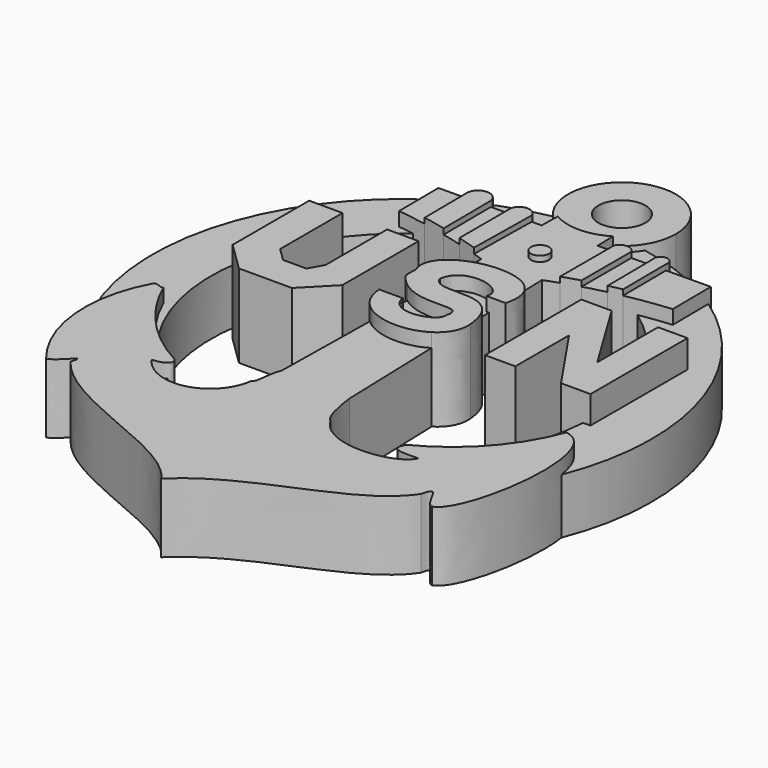
from build123d import *

# Parameters (mm, degrees)
F2_DEPTH = 7.62
F3_DEPTH = 6.35
F0_R     = 0.8291771287
F4_DEPTH = 6.858
F0_R_2   = 2.1553266284
F5_DEPTH = 5.588
F1_R     = 22.8801802179
F1_R_2   = 17.5257526387
F6_DEPTH = 5.08


with BuildPart() as f2:
    # F0 (on Top) → F2 (new body)
    with BuildSketch(Plane.XY):
        with BuildLine():
            add(Edge.make_bspline(
                [(5.497246546, 10.7486766955), (3.8334039541, 11.3815288709), (1.4025576165, 11.0387219262), (-0.0530899992, 10.0493100986)],
                knots=[2.6698914322, 2.6698914322, 2.6698914322, 2.6698914322, 6.0260331997, 6.0260331997, 6.0260331997, 6.0260331997], degree=3))
            Line((-0.0530899992, 10.0493100986), (-0.1335000247, 5.0468160789))
            add(Edge.make_bspline(
                [(4.9897432327, 3.1297719106), (5.5904434614, 5.1484242225), (2.4007336839, 3.08610125), (-0.1335000247, 5.0468160789)],
                knots=[0, 0, 0, 0, 5.9302208988, 5.9302208988, 5.9302208988, 5.9302208988], degree=3))
            add(Edge.make_bspline(
                [(0.9446991025, 3.056304995), (1.4890548773, 0.9035682888), (5.2056401037, 1.8597359303), (4.9897432327, 3.1297719106)],
                knots=[0, 0, 0, 0, 4.0457112357, 4.0457112357, 4.0457112357, 4.0457112357], degree=3))
            Line((0.9446991025, 3.056304995), (0.9446991025, 3.2122109551))
            Line((0.9446991025, 3.2122109551), (-0.1629894443, 3.2122109551))
            Line((-0.1629894443, 3.2122109551), (-0.2009005961, 0.853670351))
            add(Edge.make_bspline(
                [(-0.2009005961, 0.853670351), (1.3202973225, -0.6125575418), (4.130163992, -0.6977163859), (5.8218545421, 0.3876527215)],
                knots=[1.7083509311, 1.7083509311, 1.7083509311, 1.7083509311, 6.0881811531, 6.0881811531, 6.0881811531, 6.0881811531], degree=3))
            Line((5.8218545421, 0.3876527215), (5.6444625086, 6.049753267))
            add(Edge.make_bspline(
                [(1.1031959439, 7.2203031741), (1.6243004845, 5.7945271033), (4.0018457618, 6.881882987), (5.6444625086, 6.049753267)],
                knots=[0, 0, 0, 0, 4.9921096473, 4.9921096473, 4.9921096473, 4.9921096473], degree=3))
            add(Edge.make_bspline(
                [(1.1031959439, 7.2203031741), (1.5035220422, 9.9851647392), (6.0976599343, 8.8818231598), (5.3703715093, 7.2203031741)],
                knots=[0, 0, 0, 0, 4.2671755655, 4.2671755655, 4.2671755655, 4.2671755655], degree=3))
            Line((5.3703715093, 7.2203031741), (5.607789506, 7.2203031741))
            Line((5.607789506, 7.2203031741), (5.497246546, 10.7486766955))
        make_face()
        with BuildLine():
            Line((-0.1335000247, 5.0468160789), (-0.0530899992, 10.0493100986))
            add(Edge.make_bspline(
                [(-0.0530899992, 10.0493100986), (-1.0289451618, 9.3860158854), (-1.5665206355, 8.4321206074), (-1.1409050785, 7.2867656127)],
                knots=[6.0260331997, 6.0260331997, 6.0260331997, 6.0260331997, 8.2759652816, 8.2759652816, 8.2759652816, 8.2759652816], degree=3))
            add(Edge.make_bspline(
                [(-1.1409050785, 7.2867656127), (-1.0869735474, 7.2188825056), (-1.2571625412, 6.251544226), (-1.0367770446, 5.9762303717)],
                knots=[0.1866765909, 0.1866765909, 0.1866765909, 0.1866765909, 1, 1, 1, 1], degree=3))
            add(Edge.make_bspline(
                [(-0.1335000247, 5.0468160789), (-0.4474716117, 5.289733196), (-0.7513821278, 5.5944009559), (-1.0367770446, 5.9762303717)],
                knots=[5.9302208988, 5.9302208988, 5.9302208988, 5.9302208988, 6.6649285386, 6.6649285386, 6.6649285386, 6.6649285386], degree=3))
        make_face()
        with BuildLine():
            add(Edge.make_bspline(
                [(7.1347933263, 7.2203031741), (7.6590952528, 9.1243243126), (6.8208733141, 10.245227581), (5.497246546, 10.7486766955)],
                knots=[0, 0, 0, 0, 2.6698914322, 2.6698914322, 2.6698914322, 2.6698914322], degree=3))
            Line((5.497246546, 10.7486766955), (5.607789506, 7.2203031741))
            Line((5.607789506, 7.2203031741), (7.1347933263, 7.2203031741))
        make_face()
        with BuildLine():
            add(Edge.make_bspline(
                [(5.6444625086, 6.049753267), (6.4171671275, 5.6583104795), (7.0272421323, 4.8421118281), (7.2049377486, 3.1397419516)],
                knots=[4.9921096473, 4.9921096473, 4.9921096473, 4.9921096473, 7.3404518214, 7.3404518214, 7.3404518214, 7.3404518214], degree=3))
            Line((5.6444625086, 6.049753267), (5.8218545421, 0.3876527215))
            add(Edge.make_bspline(
                [(5.8218545421, 0.3876527215), (6.7360982592, 0.9742209251), (7.3237599081, 1.9026614266), (7.2049377486, 3.1397419516)],
                knots=[6.0881811531, 6.0881811531, 6.0881811531, 6.0881811531, 8.4551815848, 8.4551815848, 8.4551815848, 8.4551815848], degree=3))
        make_face()
        with BuildLine():
            Line((-0.2009005961, 0.853670351), (-0.1629894443, 3.2122109551))
            Line((-0.1629894443, 3.2122109551), (-1.2499332661, 3.2122109551))
            add(Edge.make_bspline(
                [(-1.2499332661, 3.2122109551), (-1.191529455, 2.2075875066), (-0.7942432028, 1.4255719223), (-0.2009005961, 0.853670351)],
                knots=[0, 0, 0, 0, 1.7083509311, 1.7083509311, 1.7083509311, 1.7083509311], degree=3))
        make_face()
    extrude(amount=F2_DEPTH)


with BuildPart() as f2b:
    # F0 (on Top) → F2, piece 2 (new body)
    with BuildSketch(Plane.XY):
        Polygon((13.802325353, 0), (13.802325353, 6.1516375281), (13.802325353, 11.029410176), (11.023982428, 11.029410176), (11.023982428, 0), align=None)
        Polygon((17.9926343262, 0), (20.6873863935, 0), (20.6873863935, 11.1058149487), (17.9926343262, 11.1058149487), (17.9926343262, 4.1447025724), align=None)
        Polygon((13.802325353, 6.1516375281), (17.9926343262, 0), (17.9926343262, 4.1447025724), (13.802325353, 11.029410176), align=None)
    extrude(amount=F2_DEPTH)



with BuildPart() as f2c:
    # F0 (on Top) → F2, piece 3 (new body)
    with BuildSketch(Plane.XY):
        Polygon((-13.7530798092, 10.8293658122), (-13.7530798092, 10.7873072848), (-13.7530798092, 2.0703237969), (-11.1178532243, -0.5058620009), (-6.2591494061, -0.5058620009), (-3.7201617694, 2.091313919), (-3.7201617694, 10.8293658122), (-6.6077923402, 10.8293658122), (-6.6077923402, 3.7746496964), (-7.3287175037, 2.489393577), (-9.4723468646, 2.489393577), (-10.6916761373, 3.6814044549), (-10.6916761373, 10.8293658122), align=None)
    extrude(amount=F2_DEPTH)


with BuildPart() as f3:
    # F0 (on Top) → F3 (new body)
    with BuildSketch(Plane.XY):
        with BuildLine():
            add(Edge.make_bspline(
                [(-0.2009005961, 0.853670351), (1.3202973225, -0.6125575418), (4.130163992, -0.6977163859), (5.8218545421, 0.3876527215)],
                knots=[1.7083509311, 1.7083509311, 1.7083509311, 1.7083509311, 6.0881811531, 6.0881811531, 6.0881811531, 6.0881811531], degree=3))
            Line((-0.2009005961, 0.853670351), (-0.3602679808, -9.0609439431))
            add(Edge.make_bspline(
                [(-0.3602679808, -9.0609439431), (-0.8195705886, -10.0890202448), (-0.5871166359, -11.4878173918), (-1.0561340114, -11.7041076334)],
                knots=[0, 0, 0, 0, 2.7332295598, 2.7332295598, 2.7332295598, 2.7332295598], degree=3))
            ThreePointArc((-1.0561340114, -11.7041076334), (-4.2387033806, -15.2435567169), (-8.6886079672, -13.5539423308))
            add(Edge.make_bspline(
                [(-8.6886079672, -13.5539423308), (-7.1325474419, -13.4357642382), (-7.0911982867, -12.7156293729), (-7.4844492439, -12.4515621701)],
                knots=[0, 0, 0, 0, 1.6325563542, 1.6325563542, 1.6325563542, 1.6325563542], degree=3))
            ThreePointArc((-7.4844492439, -12.4515621701), (-11.9371388824, -9.0010154236), (-15.0162729173, -4.2838498062))
            add(Edge.make_bspline(
                [(-15.9955534512, -4.2838498062), (-15.6531047251, -3.9355144836), (-15.2114368156, -4.5119276059), (-15.0162729173, -4.2838498062)],
                knots=[0, 0, 0, 0, 0.9792805339, 0.9792805339, 0.9792805339, 0.9792805339], degree=3))
            ThreePointArc((-15.9955534512, -4.2838498062), (-17.4403964767, -11.4248381815), (-14.6632436663, -18.1604679674))
            add(Edge.make_bspline(
                [(-14.6632436663, -18.1604679674), (-13.5372746736, -17.6549497992), (-12.4737219885, -15.7446451485), (-13.0393737927, -17.3957720399)],
                knots=[0, 0, 0, 0, 1.7949131533, 1.7949131533, 1.7949131533, 1.7949131533], degree=3))
            add(Edge.make_bspline(
                [(-13.0393737927, -17.3957720399), (-9.3975588679, -22.2023874521), (0.5145274336, -23.3325790614), (3.3587017097, -27.5006983429)],
                knots=[0, 0, 0, 0, 19.2615268287, 19.2615268287, 19.2615268287, 19.2615268287], degree=3))
            add(Edge.make_bspline(
                [(3.3587017097, -27.5006983429), (8.0886054784, -22.8314120322), (16.435906291, -22.120308131), (19.3525757641, -17.7606716752)],
                knots=[0, 0, 0, 0, 18.7262416613, 18.7262416613, 18.7262416613, 18.7262416613], degree=3))
            add(Edge.make_bspline(
                [(19.3525757641, -17.7606716752), (19.8215320706, -15.5939441174), (20.3291215003, -18.5678843409), (21.1731847376, -18.7865439802)],
                knots=[0, 0, 0, 0, 2.0897442477, 2.0897442477, 2.0897442477, 2.0897442477], degree=3))
            add(Edge.make_bspline(
                [(21.1731847376, -18.7865439802), (23.6900039017, -18.1129295379), (25.7758814842, -4.3806927279), (21.5339045972, -3.8157743402)],
                knots=[0, 0, 0, 0, 14.9751147719, 14.9751147719, 14.9751147719, 14.9751147719], degree=3))
            ThreePointArc((21.5339045972, -3.8157743402), (18.4720333988, -8.8677410017), (13.7833644916, -12.4613194776))
            add(Edge.make_bspline(
                [(13.7833644916, -12.4613194776), (13.3249154314, -13.3703788742), (13.4523222223, -13.6677725241), (15.7611753703, -13.5615131491)],
                knots=[0, 0, 0, 0, 2.2632193855, 2.2632193855, 2.2632193855, 2.2632193855], degree=3))
            add(Edge.make_bspline(
                [(7.2325540183, -12.9573960392), (8.9976812034, -16.1742356657), (15.066142194, -15.3671661392), (15.7611753703, -13.5615131491)],
                knots=[0, 0, 0, 0, 8.5499906228, 8.5499906228, 8.5499906228, 8.5499906228], degree=3))
            add(Edge.make_bspline(
                [(6.1283885869, -9.3964765191), (6.1210597488, -9.1625504676), (6.3688677056, -12.3650816321), (7.2325540183, -12.9573960392)],
                knots=[0, 0, 0, 0, 3.7281804045, 3.7281804045, 3.7281804045, 3.7281804045], degree=3))
            Line((6.1283885869, -9.3964765191), (5.8218545421, 0.3876527215))
        make_face()
    extrude(amount=F3_DEPTH)


with BuildPart() as f3b:
    # F0 (on Top) → F3, piece 2 (new body)
    with BuildSketch(Plane.XY):
        with BuildLine():
            ThreePointArc((2.6747966185, 12.356530875), (1.3448196869, 12.8752635205), (3.43437e-05, 13.3542985678))
            Line((3.43437e-05, 13.3542985678), (-0.0530899992, 10.0493100986))
            add(Edge.make_bspline(
                [(5.497246546, 10.7486766955), (3.8334039541, 11.3815288709), (1.4025576165, 11.0387219262), (-0.0530899992, 10.0493100986)],
                knots=[2.6698914322, 2.6698914322, 2.6698914322, 2.6698914322, 6.0260331997, 6.0260331997, 6.0260331997, 6.0260331997], degree=3))
            Line((5.497246546, 10.7486766955), (5.4101478402, 13.5287430824))
            ThreePointArc((5.4101478402, 13.5287430824), (4.0308505027, 12.9697562187), (2.6747966185, 12.356530875))
        make_face()
        with BuildLine():
            Line((5.2019630187, 20.1737054754), (0.1089217142, 20.1284342081))
            Line((0.1089217142, 20.1284342081), (3.43437e-05, 13.3542985678))
            ThreePointArc((3.43437e-05, 13.3542985678), (1.3448196869, 12.8752635205), (2.6747966185, 12.356530875))
            ThreePointArc((2.6747966185, 12.356530875), (4.0308505027, 12.9697562187), (5.4101478402, 13.5287430824))
            Line((5.4101478402, 13.5287430824), (5.2019630187, 20.1737054754))
        make_face()
        with Locations((3.0437263194, 16.2760168314)):
            Circle(F0_R, mode=Mode.SUBTRACT)
        with BuildLine():
            Line((6.7004956176, 20.1870257031), (5.2019630187, 20.1737054754))
            Line((5.2019630187, 20.1737054754), (5.4101478402, 13.5287430824))
            ThreePointArc((5.4101478402, 13.5287430824), (6.0531897723, 13.7679088119), (6.7004956176, 13.9952814469))
            Line((6.7004956176, 13.9952814469), (6.7004956176, 20.1870257031))
        make_face()
        with BuildLine():
            Line((3.43437e-05, 13.3542985678), (0.1089217142, 20.1284342081))
            Line((0.1089217142, 20.1284342081), (-0.803777477, 20.1203213642))
            Line((-0.803777477, 20.1203213642), (-0.9077405538, 13.6525374487))
            ThreePointArc((-0.9077405538, 13.6525374487), (-0.4531124974, 13.5056722584), (3.43437e-05, 13.3542985678))
        make_face()
        with BuildLine():
            ThreePointArc((5.144929876, 21.9941219971), (2.6500200352, 21.2809993958), (0.1378941783, 21.930878336))
            Line((0.1378941783, 21.930878336), (0.1089217142, 20.1284342081))
            Line((0.1089217142, 20.1284342081), (5.2019630187, 20.1737054754))
            Line((5.2019630187, 20.1737054754), (5.144929876, 21.9941219971))
        make_face()
    extrude(amount=F3_DEPTH)



with BuildPart() as f3c:
    # F0 (on Top) → F3, piece 3 (new body)
    with BuildSketch(Plane.XY):
        with BuildLine():
            Line((-2.6594451518, 14.1724086738), (-2.6594451518, 20.1038266173))
            Line((-2.6594451518, 20.1038266173), (-4.5163827142, 20.0873205826))
            Line((-4.5163827142, 20.0873205826), (-4.467912348, 14.6343789778))
            ThreePointArc((-4.467912348, 14.6343789778), (-3.5614376068, 14.41216719), (-2.6594451518, 14.1724086738))
        make_face()
    extrude(amount=F3_DEPTH)


with BuildPart() as f3d:
    # F0 (on Top) → F3, piece 4 (new body)
    with BuildSketch(Plane.XY):
        with BuildLine():
            Line((-6.5634267678, 15.0775802073), (-6.6077923402, 20.0687303614))
            Line((-6.6077923402, 20.0687303614), (-9.2860393158, 20.0449238325))
            Line((-9.2860393158, 20.0449238325), (-9.2456822017, 15.5047273435))
            ThreePointArc((-9.2456822017, 15.5047273435), (-7.901538842, 15.310090398), (-6.5634267678, 15.0775802073))
        make_face()
    extrude(amount=F3_DEPTH)


with BuildPart() as f3e:
    # F0 (on Top) → F3, piece 5 (new body)
    with BuildSketch(Plane.XY):
        with BuildLine():
            Line((10.2019393966, 20.2181495028), (8.2729222906, 20.201002764))
            Line((8.2729222906, 20.201002764), (8.2729222906, 14.4932311551))
            ThreePointArc((8.2729222906, 14.4932311551), (9.2570237939, 14.7667608824), (10.2482035094, 15.0134125641))
            Line((10.2482035094, 15.0134125641), (10.2019393966, 20.2181495028))
        make_face()
    extrude(amount=F3_DEPTH)


with BuildPart() as f3f:
    # F0 (on Top) → F3, piece 6 (new body)
    with BuildSketch(Plane.XY):
        with BuildLine():
            Line((15.4968295246, 20.2652149735), (11.4146024558, 20.2289286798))
            Line((11.4146024558, 20.2289286798), (11.4586265037, 15.2762002129))
            ThreePointArc((11.4586265037, 15.2762002129), (13.4892792643, 15.6244369767), (15.5359803223, 15.8607297125))
            Line((15.5359803223, 15.8607297125), (15.4968295246, 20.2652149735))
        make_face()
    extrude(amount=F3_DEPTH)


with BuildPart() as f3g:
    # F0 (on Top) → F3, piece 7 (new body)
    with BuildSketch(Plane.XY):
        with BuildLine():
            Line((5.6444625086, 6.049753267), (5.607789506, 7.2203031741))
            Line((5.607789506, 7.2203031741), (5.3703715093, 7.2203031741))
            add(Edge.make_bspline(
                [(1.1031959439, 7.2203031741), (1.5035220422, 9.9851647392), (6.0976599343, 8.8818231598), (5.3703715093, 7.2203031741)],
                knots=[0, 0, 0, 0, 4.2671755655, 4.2671755655, 4.2671755655, 4.2671755655], degree=3))
            add(Edge.make_bspline(
                [(1.1031959439, 7.2203031741), (1.6243004845, 5.7945271033), (4.0018457618, 6.881882987), (5.6444625086, 6.049753267)],
                knots=[0, 0, 0, 0, 4.9921096473, 4.9921096473, 4.9921096473, 4.9921096473], degree=3))
        make_face()
    extrude(amount=F3_DEPTH)


with BuildPart() as f3h:
    # F0 (on Top) → F3, piece 8 (new body)
    with BuildSketch(Plane.XY):
        with BuildLine():
            add(Edge.make_bspline(
                [(4.9897432327, 3.1297719106), (5.5904434614, 5.1484242225), (2.4007336839, 3.08610125), (-0.1335000247, 5.0468160789)],
                knots=[0, 0, 0, 0, 5.9302208988, 5.9302208988, 5.9302208988, 5.9302208988], degree=3))
            Line((-0.1335000247, 5.0468160789), (-0.1629894443, 3.2122109551))
            Line((-0.1629894443, 3.2122109551), (0.9446991025, 3.2122109551))
            Line((0.9446991025, 3.2122109551), (0.9446991025, 3.056304995))
            add(Edge.make_bspline(
                [(0.9446991025, 3.056304995), (1.4890548773, 0.9035682888), (5.2056401037, 1.8597359303), (4.9897432327, 3.1297719106)],
                knots=[0, 0, 0, 0, 4.0457112357, 4.0457112357, 4.0457112357, 4.0457112357], degree=3))
        make_face()
    extrude(amount=F3_DEPTH)


with BuildPart() as f3b_1:
    add(f3b.part)

    add(f3c.part)  # F4 merges F3c

    add(f3d.part)  # F4 merges F3d

    add(f3e.part)  # F4 merges F3e

    add(f3f.part)  # F4 merges F3f
    # F0 (on Top) → F4 (join)
    with BuildSketch(Plane.XY):
        with BuildLine():
            Line((-0.9077405538, 13.6525374487), (-0.803777477, 20.1203213642))
            Line((-0.803777477, 20.1203213642), (-2.6594451518, 20.1038266173))
            Line((-2.6594451518, 20.1038266173), (-2.6594451518, 14.1724086738))
            ThreePointArc((-2.6594451518, 14.1724086738), (-1.7811239536, 13.9207920101), (-0.9077405538, 13.6525374487))
        make_face()
        with BuildLine():
            Line((-4.467912348, 14.6343789778), (-4.5163827142, 20.0873205826))
            Line((-4.5163827142, 20.0873205826), (-6.6077923402, 20.0687303614))
            Line((-6.6077923402, 20.0687303614), (-6.5634267678, 15.0775802073))
            ThreePointArc((-6.5634267678, 15.0775802073), (-5.5132022385, 14.867645407), (-4.467912348, 14.6343789778))
        make_face()
        with BuildLine():
            Line((8.2729222906, 20.201002764), (6.7004956176, 20.1870257031))
            Line((6.7004956176, 20.1870257031), (6.7004956176, 13.9952814469))
            ThreePointArc((6.7004956176, 13.9952814469), (7.4839734968, 14.2528943341), (8.2729222906, 14.4932311551))
            Line((8.2729222906, 14.4932311551), (8.2729222906, 20.201002764))
        make_face()
        with BuildLine():
            Line((11.4146024558, 20.2289286798), (10.2019393966, 20.2181495028))
            Line((10.2019393966, 20.2181495028), (10.2482035094, 15.0134125641))
            ThreePointArc((10.2482035094, 15.0134125641), (10.8523309745, 15.1497995356), (11.4586265037, 15.2762002129))
            Line((11.4586265037, 15.2762002129), (11.4146024558, 20.2289286798))
        make_face()
        with BuildLine():
            ThreePointArc((11.4146024558, 20.2289286798), (10.8012080146, 21.0181203573), (10.2019393966, 20.2181495028))
            Line((10.2019393966, 20.2181495028), (11.4146024558, 20.2289286798))
        make_face()
        with BuildLine():
            ThreePointArc((8.2729222906, 20.201002764), (7.4823936371, 20.6794896628), (6.7004956176, 20.1870257031))
            Line((6.7004956176, 20.1870257031), (8.2729222906, 20.201002764))
        make_face()
        with BuildLine():
            Line((-2.6594451518, 20.1038266173), (-0.803777477, 20.1203213642))
            ThreePointArc((-0.803777477, 20.1203213642), (-1.7378517145, 20.8141222776), (-2.6594451518, 20.1038266173))
        make_face()
        with BuildLine():
            Line((-6.6077923402, 20.0687303614), (-4.5163827142, 20.0873205826))
            ThreePointArc((-4.5163827142, 20.0873205826), (-5.5701669074, 20.9869599849), (-6.6077923402, 20.0687303614))
        make_face()
        with Locations((3.0437263194, 16.2760168314)):
            Circle(F0_R)
    extrude(amount=F4_DEPTH)

    # F0 (on Top) → F5 (join)
    with BuildSketch(Plane.XY):
        with BuildLine():
            ThreePointArc((5.144929876, 21.9941219971), (6.8905836065, 23.7945297062), (7.5271603271, 26.2201316819))
            ThreePointArc((7.5271603271, 26.2201316819), (0.1078795091, 30.4921027868), (0.1378941783, 21.930878336))
            ThreePointArc((0.1378941783, 21.930878336), (2.6500200352, 21.2809993958), (5.144929876, 21.9941219971))
        make_face()
        with Locations((2.5876340593, 26.2201316819)):
            Circle(F0_R_2, mode=Mode.SUBTRACT)
    extrude(amount=F5_DEPTH)


with BuildPart() as f2b_1:
    add(f2b.part)

    add(f2c.part)  # F6 merges F2c

    add(f3.part)  # F6 merges F3

    add(f3b_1.part)  # F6 merges F3b
    # F1 (on Top) → F6 (join)
    with BuildSketch(Plane.XY):
        with Locations((2.5288132019, 1.1356652249)):
            Circle(F1_R)
        with Locations((2.5288132019, 1.1356652249)):
            Circle(F1_R_2, mode=Mode.SUBTRACT)
    extrude(amount=F6_DEPTH)


solid = Compound([f2.part, f3g.part, f3h.part, f2b_1.part])
